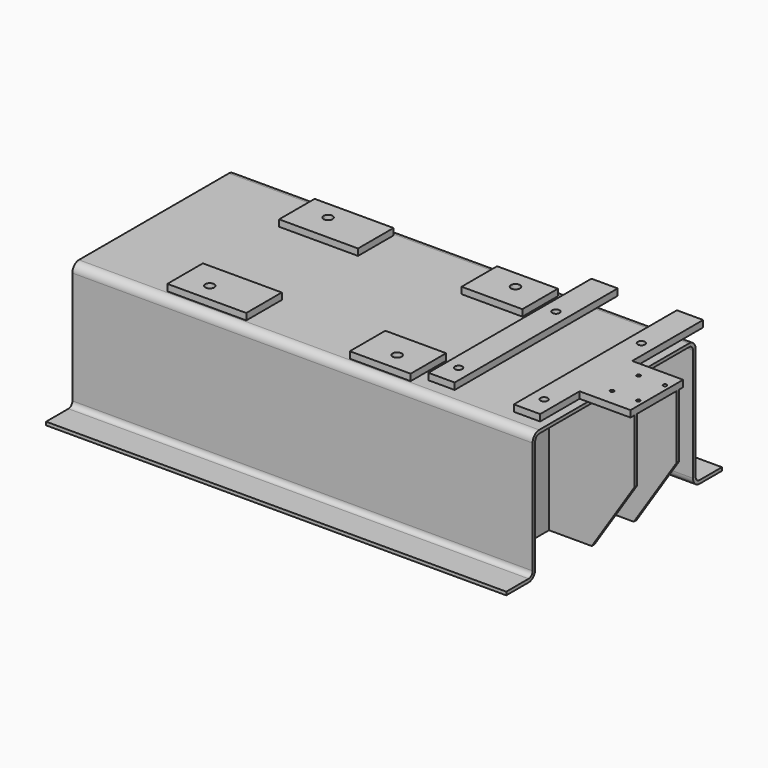
from build123d import *

# Parameters (mm, degrees)
F1_DEPTH  = 889
F2_W      = 101.6
F2_H      = 787.4
F2_R      = 14.2875
F3_DEPTH  = 25.4
F4_R      = 7.14375
F5_DEPTH  = 523.749
F8_DEPTH  = 12.7
F9_W      = 12.7
F9_H      = 485.648
F10_DEPTH = 330.2
F11_W     = 165.0999999996
F11_H     = 12.9023852367
F12_DEPTH = 12.7
F15_DEPTH = 628.651
F17_W     = 304.8
F17_H     = 171.45
F17_R     = 17.526
F17_W_2   = 234.95
F18_DEPTH = 25.4


with BuildPart() as f1:
    # F0 (on Right) → F1 (new body, symmetric)
    with BuildSketch(Plane.YZ):
        with BuildLine():
            Line((-520.7, 12.7), (-520.7, 0))
            Line((-520.7, 0), (-412.75, 0))
            ThreePointArc((-412.75, 0), (-390.2993596973, 9.2993596973), (-381, 31.75))
            Line((-381, 31.75), (-381, 466.598))
            ThreePointArc((-381, 466.598), (-375.4203841816, 480.0683841816), (-361.95, 485.648))
            Line((-361.95, 485.648), (0, 485.648))
            Line((0, 485.648), (361.95, 485.648))
            ThreePointArc((361.95, 485.648), (375.4203841816, 480.0683841816), (381, 466.598))
            Line((381, 466.598), (381, 31.75))
            ThreePointArc((381, 31.75), (390.2993596973, 9.2993596973), (412.75, 0))
            Line((412.75, 0), (520.7, 0))
            Line((520.7, 0), (520.7, 12.7))
            Line((520.7, 12.7), (412.75, 12.7))
            ThreePointArc((412.75, 12.7), (399.2796158184, 18.2796158184), (393.7, 31.75))
            Line((393.7, 31.75), (393.7, 466.598))
            ThreePointArc((393.7, 466.598), (384.4006403027, 489.0486403027), (361.95, 498.348))
            Line((361.95, 498.348), (0, 498.348))
            Line((0, 498.348), (-361.95, 498.348))
            ThreePointArc((-361.95, 498.348), (-384.4006403027, 489.0486403027), (-393.7, 466.598))
            Line((-393.7, 466.598), (-393.7, 31.75))
            ThreePointArc((-393.7, 31.75), (-399.2796158184, 18.2796158184), (-412.75, 12.7))
            Line((-412.75, 12.7), (-520.7, 12.7))
        make_face()
    extrude(amount=F1_DEPTH, both=True)

    # F2 (on face) → F3 (join)
    with BuildSketch(Plane.XY.offset(498.348)):
        with Locations((476.25, 76.2)):
            Rectangle(F2_W, F2_H)
        with Locations((476.25, -234.95)):
            Circle(F2_R, mode=Mode.SUBTRACT)
        with Locations((476.25, 234.95)):
            Circle(F2_R, mode=Mode.SUBTRACT)
        Polygon((857.25, 469.9), (755.65, 469.9), (755.65, -317.5), (857.25, -317.5), (857.25, -127), (1054.1, -127), (1054.1, 127), (857.25, 127), align=None)
        with Locations((806.45, -234.95)):
            Circle(F2_R, mode=Mode.SUBTRACT)
        with Locations((806.45, 234.95)):
            Circle(F2_R, mode=Mode.SUBTRACT)
    extrude(amount=F3_DEPTH)

    # F4 (on face) → F5 (cut, through all)
    with BuildSketch(Plane.XY.offset(523.748)):
        with Locations((931.926, 64.516)):
            Circle(F4_R)
        with Locations((1033.526, 64.516)):
            Circle(F4_R)
        with Locations((1033.526, -63.5)):
            Circle(F4_R)
        with Locations((931.926, -63.5)):
            Circle(F4_R)
    extrude(amount=-F5_DEPTH, mode=Mode.SUBTRACT)

    # F7 (on offset) → F8 (join)
    with BuildSketch(Plane.YZ.offset(723.9)):
        Polygon((361.95, 485.648), (-361.95, 485.648), (-381, 466.598), (-381, 0), (381, 0), (381, 466.598), align=None)
    extrude(amount=-F8_DEPTH)

    # F17 (on face) → F18 (join)
    with BuildSketch(Plane.XY.offset(498.348)):
        with Locations((-400.05, 269.875)):
            Rectangle(F17_W, F17_H)
        with Locations((-444.5, 285.75)):
            Circle(F17_R, mode=Mode.SUBTRACT)
        with Locations((269.875, 269.875)):
            Rectangle(F17_W_2, F17_H)
        with Locations((279.4, 285.75)):
            Circle(F17_R, mode=Mode.SUBTRACT)
        with Locations((269.875, -269.875)):
            Rectangle(F17_W_2, F17_H)
        with Locations((279.4, -285.75)):
            Circle(F17_R, mode=Mode.SUBTRACT)
        with Locations((-400.05, -269.875)):
            Rectangle(F17_W, F17_H)
        with Locations((-444.5, -285.75)):
            Circle(F17_R, mode=Mode.SUBTRACT)
    extrude(amount=F18_DEPTH)


with BuildPart() as f10:
    # F9 (on face) → F10 (new body, through all)
    with BuildSketch(Plane.YZ.offset(723.9)):
        with Locations((-101.6, 242.824)):
            Rectangle(F9_W, F9_H)
    extrude(amount=F10_DEPTH)


with BuildPart() as f12:
    # F11 (on face) → F12 (new body)
    with BuildSketch(Plane.XZ.offset(107.95)):
        with Locations((971.5500000003, 492.0991926184)):
            Rectangle(F11_W, F11_H)
    extrude(amount=-F12_DEPTH)

    # F13: union F10
    add(f10.part)

    # F14 (on face) → F15 (cut, through all)
    with BuildSketch(Plane.XZ.offset(107.95)):
        Polygon((1054.1000000005, 0), (1054.1000000007, 254), (889, 0), align=None)
    extrude(amount=-F15_DEPTH, mode=Mode.SUBTRACT)


with BuildPart() as f16_1:
    # F16: instance of F12
    add(f12.part.mirror(Plane.XZ))


solid = Compound([f1.part, f12.part, f16_1.part])
